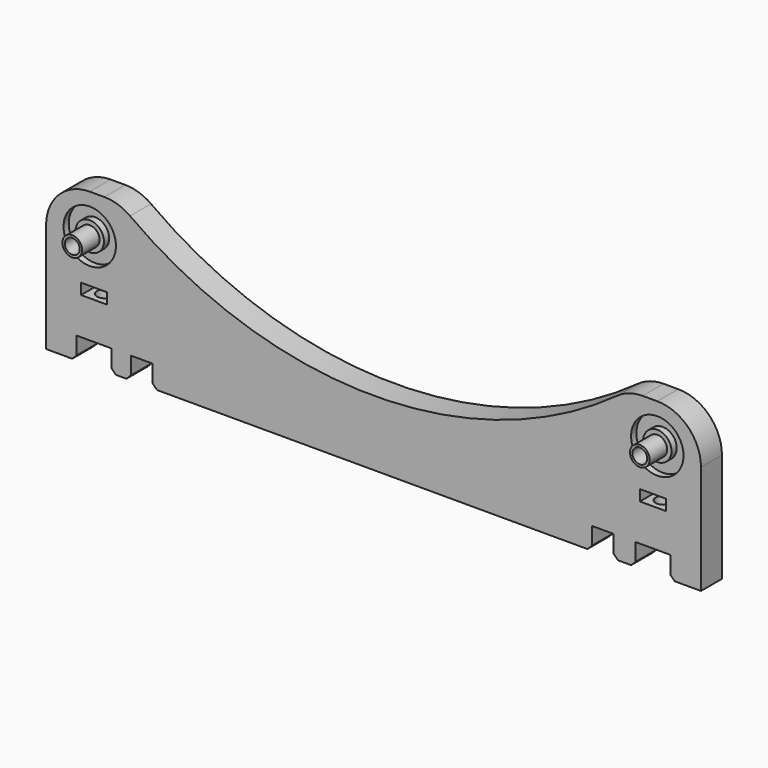
from build123d import *

# Parameters (mm, degrees)
F1_DEPTH  = 6
F2_R      = 6
F2_R_2    = 3.25
F3_DEPTH  = 1.5
F4_W      = 8
F4_H      = 5
F4_W_2    = 6
F4_H_2    = 2.5
F4_W_3    = 5
F5_DEPTH  = 6.001
F6_R      = 10
F7_SIZE   = 1
F8_R      = 1.75
F9_DEPTH  = 14.5
F10_R     = 1.75
F11_DEPTH = 14.5
F12_R     = 2.25
F13_DEPTH = 5
F14_R     = 1.7
F15_DEPTH = 11.001
F16_R     = 2.25
F17_DEPTH = 5
F18_R     = 1.7
F19_DEPTH = 11.001
F20_R     = 2.8
F20_R_2   = 1.7
F21_DEPTH = 3


with BuildPart() as f1:
    # F0 (on Front) → F1 (new body)
    with BuildSketch(Plane.XZ):
        with BuildLine():
            Line((-75, 0), (75, 0))
            Line((75, 0), (75, 35))
            Line((75, 35), (58.3095189485, 35))
            ThreePointArc((58.3095189485, 35), (0, 15), (-58.3095189485, 35))
            Line((-58.3095189485, 35), (-75, 35))
            Line((-75, 35), (-75, 0))
        make_face()
    extrude(amount=F1_DEPTH)

    # F2 (on face) → F3 (cut)
    with BuildSketch(Plane.XZ.offset(6)):
        with Locations((-65, 26)):
            Circle(F2_R)
        with Locations((-65, 26)):
            Circle(F2_R_2, mode=Mode.SUBTRACT)
        with Locations((65, 26)):
            Circle(F2_R)
        with Locations((65, 26)):
            Circle(F2_R_2, mode=Mode.SUBTRACT)
    extrude(amount=-F3_DEPTH, mode=Mode.SUBTRACT)

    # F4 (on face) → F5 (cut, through all)
    with BuildSketch(Plane.XZ.offset(6)):
        with Locations((-64, 2.5)):
            Rectangle(F4_W, F4_H)
        with Locations((64, 2.5)):
            Rectangle(F4_W, F4_H)
        with Locations((-64, 14.75)):
            Rectangle(F4_W_2, F4_H_2)
        with Locations((64, 14.75)):
            Rectangle(F4_W_2, F4_H_2)
        with Locations((52.5, 2.5)):
            Rectangle(F4_W_3, F4_H)
        with Locations((-53.0885396898, 2.5)):
            Rectangle(F4_W_3, F4_H)
    extrude(amount=-F5_DEPTH, mode=Mode.SUBTRACT)

    # F6
    f6_edges = [f1.edges().sort_by_distance(p)[0] for p in [
        (-75, -3, 35),
        (75, -3, 35),
        (58.309519, -3, 35),
        (-58.309519, -3, 35),
    ]]
    fillet(f6_edges, radius=F6_R)

    # F7
    f7_edges = [f1.edges().sort_by_distance(p)[0] for p in [
        (-68, -3, 0),
        (-60, -3, 0),
        (60, -3, 0),
        (68, -3, 0),
        (-55.58854, -3, 0),
        (-50.58854, -3, 0),
        (50, -3, 0),
        (55, -3, 0),
    ]]
    chamfer(f7_edges, length=F7_SIZE)

    # F8 (on face) → F9 (cut)
    with BuildSketch(Plane(origin=(0, 0, 5), x_dir=(1, 0, 0), z_dir=(0, 0, -1))):
        with Locations((-64, 3)):
            Circle(F8_R)
    extrude(amount=-F9_DEPTH, mode=Mode.SUBTRACT)

    # F10 (on face) → F11 (cut)
    with BuildSketch(Plane(origin=(0, 0, 5), x_dir=(1, 0, 0), z_dir=(0, 0, -1))):
        with Locations((64, 3)):
            Circle(F10_R)
    extrude(amount=-F11_DEPTH, mode=Mode.SUBTRACT)

    # F12 (on face) → F13 (join)
    with BuildSketch(Plane.XZ.offset(6)):
        with Locations((-65, 26)):
            Circle(F12_R)
    extrude(amount=F13_DEPTH)

    # F14 (on face) → F15 (cut, through all)
    with BuildSketch(Plane.XZ.offset(11)):
        with Locations((-65, 26)):
            Circle(F14_R)
    extrude(amount=-F15_DEPTH, mode=Mode.SUBTRACT)

    # F16 (on face) → F17 (join)
    with BuildSketch(Plane.XZ.offset(6)):
        with Locations((65, 26)):
            Circle(F16_R)
    extrude(amount=F17_DEPTH)

    # F18 (on face) → F19 (cut, through all)
    with BuildSketch(Plane.XZ.offset(11)):
        with Locations((65, 26)):
            Circle(F18_R)
    extrude(amount=-F19_DEPTH, mode=Mode.SUBTRACT)

    # F20 (on face) → F21 (cut)
    with BuildSketch(Plane(origin=(0, 0, 0), x_dir=(-1, 0, 0), z_dir=(0, 1, 0))):
        with Locations((-65, 26)):
            Circle(F20_R)
        with Locations((-65, 26)):
            Circle(F20_R_2, mode=Mode.SUBTRACT)
        with Locations((65, 26)):
            Circle(F20_R)
        with Locations((65, 26)):
            Circle(F20_R_2, mode=Mode.SUBTRACT)
    extrude(amount=-F21_DEPTH, mode=Mode.SUBTRACT)


solid = f1.part
